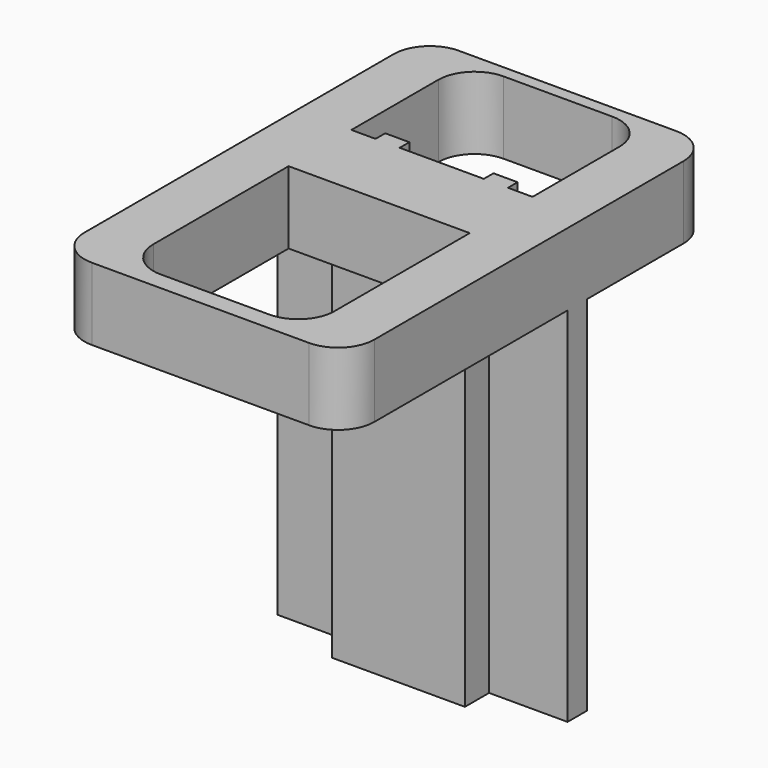
from build123d import *

# Parameters (mm, degrees)
F1_DEPTH = 6
F3_DEPTH = 6
F5_DEPTH = 30
F6_W     = 2
F6_H     = 1
F7_DEPTH = 21


with BuildPart() as f1:
    # F0 (on Top) → F1 (new body)
    with BuildSketch(Plane.XY):
        with BuildLine():
            ThreePointArc((12, 16), (11.1213203436, 18.1213203436), (9, 19))
            Line((9, 19), (-9, 19))
            ThreePointArc((-9, 19), (-11.1213203436, 18.1213203436), (-12, 16))
            Line((-12, 16), (-12, -16))
            ThreePointArc((-12, -16), (-11.1213203436, -18.1213203436), (-9, -19))
            Line((-9, -19), (9, -19))
            ThreePointArc((9, -19), (11.1213203436, -18.1213203436), (12, -16))
            Line((12, -16), (12, 16))
        make_face()
    extrude(amount=-F1_DEPTH)

    # F2 (on face) → F3 (cut, through all)
    with BuildSketch(Plane.XY):
        with BuildLine():
            ThreePointArc((7.5, 15), (6.6213203436, 17.1213203436), (4.5, 18))
            Line((4.5, 18), (-4.5, 18))
            ThreePointArc((-4.5, 18), (-6.6213203436, 17.1213203436), (-7.5, 15))
            Line((-7.5, 15), (-7.5, 6))
            Line((-7.5, 6), (7.5, 6))
            Line((7.5, 6), (7.5, 15))
        make_face()
        with BuildLine():
            Line((7.5, -14.5), (7.5, -0.5))
            Line((7.5, -0.5), (-7.5, -0.5))
            Line((-7.5, -0.5), (-7.5, -14.5))
            ThreePointArc((-7.5, -14.5), (-6.6213203436, -16.6213203436), (-4.5, -17.5))
            Line((-4.5, -17.5), (4.5, -17.5))
            ThreePointArc((4.5, -17.5), (6.6213203436, -16.6213203436), (7.5, -14.5))
        make_face()
    extrude(amount=-F3_DEPTH, mode=Mode.SUBTRACT)

    # F4 (on face) → F5 (join)
    with BuildSketch(Plane(origin=(0, 0, -6), x_dir=(1, 0, 0), z_dir=(0, 0, -1))):
        Polygon((-3.5, -2.5), (3.5, -2.5), (3.5, -6), (7.5, -6), (12, -6), (12, -4), (5.5, -4), (5.5, -1.5), (-5.5, -1.5), (-5.5, -4), (-12, -4), (-12, -6), (-7.5, -6), (-3.5, -6), align=None)
    extrude(amount=F5_DEPTH)

    # F6 (on face) → F7 (join)
    with BuildSketch(Plane.XY):
        with Locations((-4.5, 6.5)):
            Rectangle(F6_W, F6_H)
        with Locations((4.4662822727, 6.5)):
            Rectangle(F6_W, F6_H)
    extrude(amount=-F7_DEPTH)


solid = f1.part
